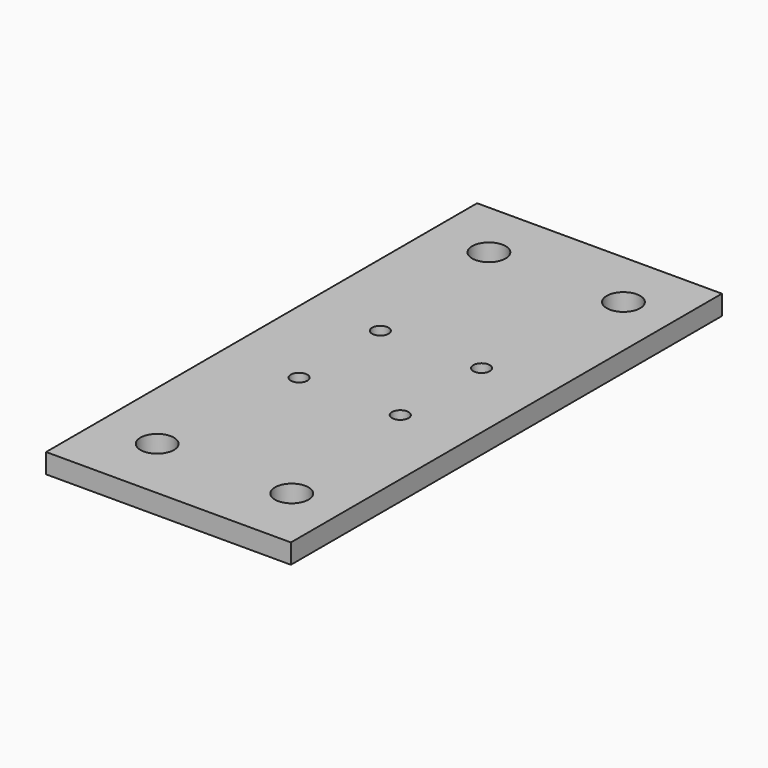
from build123d import *

# Parameters (mm, degrees)
F0_W     = 62.1536839753
F0_H     = 136.7805153131
F1_DEPTH = 2.5
F3_D     = 4.2
F5_D     = 8.5
F5_DEPTH = 17.2
F5_TIP   = 2.5536576309


with BuildPart() as f1:
    # F0 (on Top) → F1 (new body, symmetric)
    with BuildSketch(Plane.XY):
        with Locations((-1.0015358767, -0.7572177634)):
            Rectangle(F0_W, F0_H)
    extrude(amount=F1_DEPTH, both=True)

    # F3 (through all)
    with Locations(Plane.XY.offset(2.5)):
        with Locations((-12.85, -12.898471453), (-12.85, 12.898471453), (12.85, -12.898471453), (12.85, 12.898471453)):
            Hole(F3_D / 2)

    # F5
    with Locations(Plane.XY.offset(2.5)):
        with Locations((-17.0783778643, 52.6330398932), (17.0783778643, 52.6330398932), (17.0783778643, -52.6330398932), (-17.0783778643, -52.6330398932)):
            Hole(F5_D / 2, depth=F5_DEPTH)
            with Locations((0, 0, -(F5_DEPTH + F5_TIP / 2))):  # 118° drill point
                Cone(0, F5_D / 2, F5_TIP, mode=Mode.SUBTRACT)


solid = f1.part
